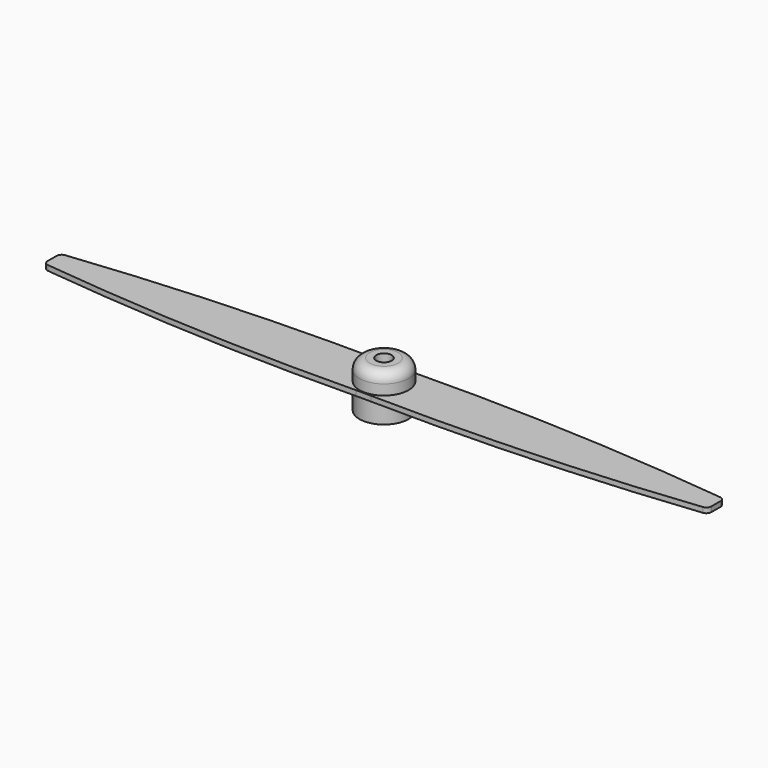
from build123d import *

# Parameters (mm, degrees)
F0_R     = 0.75
F1_DEPTH = 0.5
F2_R     = 2.4
F2_R_2   = 0.75
F3_DEPTH = 2
F4_R     = 1
F5_R     = 2.4
F5_R_2   = 0.75
F6_DEPTH = 2


with BuildPart() as f1:
    # F0 (on Top) → F1 (new body)
    with BuildSketch(Plane.XY):
        with BuildLine():
            ThreePointArc((-32.0556782457, 1.0502037309), (-32.3727191455, 0.8866007898), (-32.5, 0.5533134684))
            Line((-32.5, 0.5533134684), (-32.5, -0.5533134684))
            ThreePointArc((-32.5, -0.5533134684), (-32.3727191455, -0.8866007898), (-32.0556782457, -1.0502037309))
            ThreePointArc((-32.0556782457, -1.0502037309), (-16.4153028407, -2.2906426773), (-0.7274094873, -2.5143248665))
            ThreePointArc((-0.7274094873, -2.5143248665), (0, -2.5077102626), (0.7274094873, -2.5143248665))
            ThreePointArc((0.7274094873, -2.5143248665), (16.4153028407, -2.2906426773), (32.0556782457, -1.0502037309))
            ThreePointArc((32.0556782457, -1.0502037309), (32.3727191455, -0.8866007898), (32.5, -0.5533134684))
            Line((32.5, -0.5533134684), (32.5, 0.5533134684))
            ThreePointArc((32.5, 0.5533134684), (32.3727191455, 0.8866007898), (32.0556782457, 1.0502037309))
            ThreePointArc((32.0556782457, 1.0502037309), (16.4153028407, 2.2906426773), (0.7274094872, 2.5143248666))
            ThreePointArc((0.7274094872, 2.5143248666), (0, 2.5077102626), (-0.7274094872, 2.5143248666))
            ThreePointArc((-0.7274094872, 2.5143248666), (-16.4153028407, 2.2906426773), (-32.0556782457, 1.0502037309))
        make_face()
        Circle(F0_R, mode=Mode.SUBTRACT)
    extrude(amount=F1_DEPTH)

    # F2 (on face) → F3 (join)
    with BuildSketch(Plane.XY.offset(0.5)):
        Circle(F2_R)
        Circle(F2_R_2, mode=Mode.SUBTRACT)
    extrude(amount=F3_DEPTH)

    # F4
    f4_edges = [f1.edges().sort_by_distance(p)[0] for p in [
        (-2.4, 0, 2.5),
    ]]
    fillet(f4_edges, radius=F4_R)

    # F5 (on face) → F6 (join)
    with BuildSketch(Plane(origin=(0, 0, 0), x_dir=(1, 0, 0), z_dir=(0, 0, -1))):
        Circle(F5_R)
        Circle(F5_R_2, mode=Mode.SUBTRACT)
    extrude(amount=F6_DEPTH)


solid = f1.part
